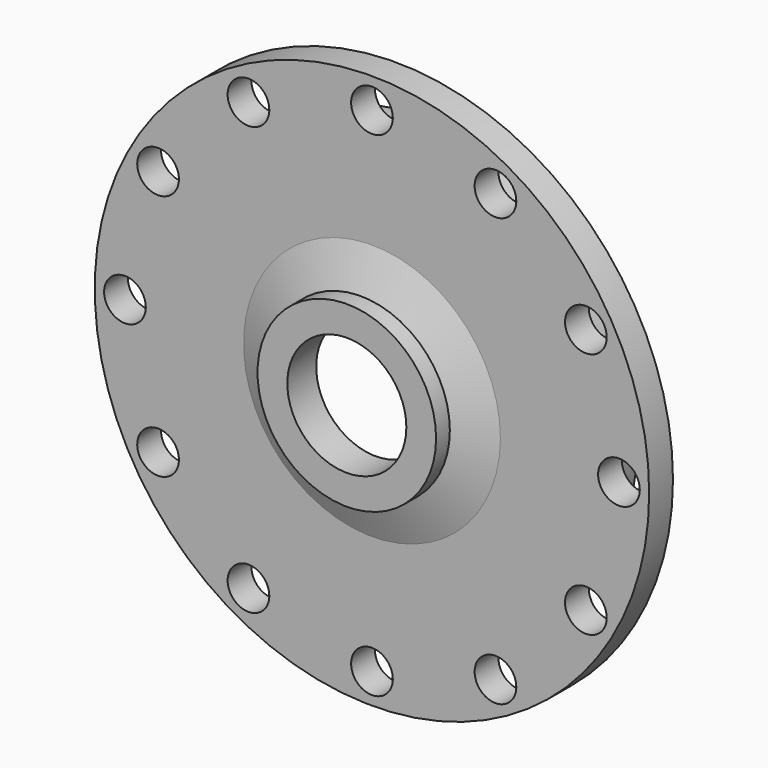
from build123d import *

# Parameters (mm, degrees)
F3_R     = 3.5
F4_DEPTH = 15.280641
F5_DEPTH = 25


with BuildPart() as f2:
    # F2: sweep along a path in F1
    with BuildLine(Plane.XZ) as f2_path:
        CenterArc((0, 0), 12.5, 0, 360)
    # F0 (on Top) → F2 (sweep)
    with BuildSketch(Plane.XY):
        Polygon((31.577848, 10.279641), (21.577848, 10.279641), (10, 6.065649), (10, 0), (15, 0), (15, 2.8855), (21.577848, 5.279641), (46.577848, 5.279641), (46.577848, 10.279641), (36.577848, 10.279641), (36.577848, 15.279641), (31.577848, 15.279641), align=None)
    sweep(path=f2_path.line)

    # F3 (on Front) → F4 (cut, through all)
    with BuildSketch(Plane.XZ):
        with Locations((0, 41.5)):
            Circle(F3_R)
    extrude(amount=-F4_DEPTH, mode=Mode.SUBTRACT)

    # F3 (on Front) → F5 (cut)
    with BuildSketch(Plane.XZ):
        with Locations((-20.75, 35.940054)):
            Circle(F3_R)
        with Locations((-35.940054, 20.75)):
            Circle(F3_R)
        with Locations((-41.5, 0)):
            Circle(F3_R)
        with Locations((-35.940054, -20.75)):
            Circle(F3_R)
        with Locations((-20.75, -35.940054)):
            Circle(F3_R)
        with Locations((0, -41.5)):
            Circle(F3_R)
        with Locations((20.75, -35.940054)):
            Circle(F3_R)
        with Locations((35.940054, -20.75)):
            Circle(F3_R)
        with Locations((41.5, 0)):
            Circle(F3_R)
        with Locations((35.940054, 20.75)):
            Circle(F3_R)
        with Locations((20.75, 35.940054)):
            Circle(F3_R)
        with Locations((0, 41.5)):
            Circle(F3_R)
    extrude(amount=-F5_DEPTH, mode=Mode.SUBTRACT)


solid = f2.part
